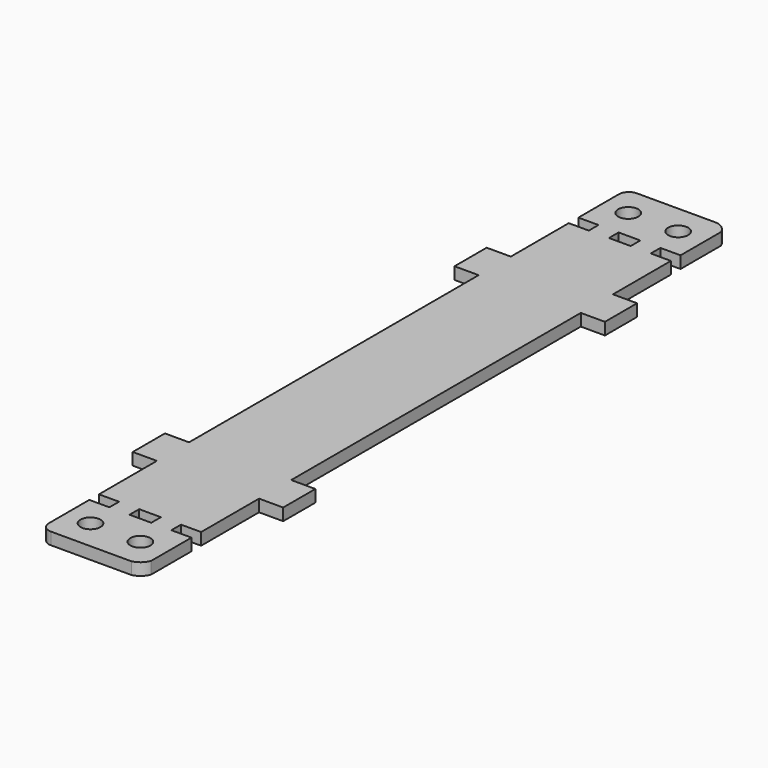
from build123d import *

# Parameters (mm, degrees)
F0_R     = 2.5
F0_W     = 5.4
F0_H     = 3
F1_DEPTH = 3


with BuildPart() as f1:
    # F0 (on Top) → F1 (new body)
    with BuildSketch(Plane.XY):
        with BuildLine():
            Line((35.475276, 88.562525), (35.475276, 76))
            Line((35.475276, 76), (40.475276, 76))
            Line((40.475276, 76), (40.475276, 73))
            Line((40.475276, 73), (35.475276, 73))
            Line((35.475276, 73), (35.475276, 55))
            Line((35.475276, 55), (29.475276, 55))
            Line((29.475276, 55), (29.475276, 45))
            Line((29.475276, 45), (35.475276, 45))
            Line((35.475276, 45), (35.475276, 0))
            Line((35.475276, 0), (35.475276, -45))
            Line((35.475276, -45), (29.475276, -45))
            Line((29.475276, -45), (29.475276, -55))
            Line((29.475276, -55), (35.475276, -55))
            Line((35.475276, -55), (35.475276, -73))
            Line((35.475276, -73), (40.475276, -73))
            Line((40.475276, -73), (40.475276, -76))
            Line((40.475276, -76), (35.475276, -76))
            Line((35.475276, -76), (35.475276, -88.562525))
            ThreePointArc((35.475276, -88.562525), (36.207509, -90.330292), (37.975276, -91.062525))
            Line((37.975276, -91.062525), (57.975276, -91.062525))
            ThreePointArc((57.975276, -91.062525), (59.741977, -90.179898), (60.875276, -88.562525))
            Line((60.875276, -88.562525), (60.875276, -76))
            Line((60.875276, -76), (55.875276, -76))
            Line((55.875276, -76), (55.875276, -73))
            Line((55.875276, -73), (60.875276, -73))
            Line((60.875276, -73), (60.875276, -55))
            Line((60.875276, -55), (66.875276, -55))
            Line((66.875276, -55), (66.875276, -45))
            Line((66.875276, -45), (60.875276, -45))
            Line((60.875276, -45), (60.875276, 0))
            Line((60.875276, 0), (60.875276, 45))
            Line((60.875276, 45), (66.875276, 45))
            Line((66.875276, 45), (66.875276, 55))
            Line((66.875276, 55), (60.875276, 55))
            Line((60.875276, 55), (60.875276, 73))
            Line((60.875276, 73), (55.875276, 73))
            Line((55.875276, 73), (55.875276, 76))
            Line((55.875276, 76), (60.875276, 76))
            Line((60.875276, 76), (60.875276, 88.562525))
            ThreePointArc((60.875276, 88.562525), (59.741977, 90.179898), (57.975276, 91.062525))
            Line((57.975276, 91.062525), (37.975276, 91.062525))
            ThreePointArc((37.975276, 91.062525), (36.207509, 90.330292), (35.475276, 88.562525))
        make_face()
        with Locations((41.825276, -83.562525)):
            Circle(F0_R, mode=Mode.SUBTRACT)
        with Locations((54.225276, -83.562525)):
            Circle(F0_R, mode=Mode.SUBTRACT)
        with Locations((48.175276, -74.5)):
            Rectangle(F0_W, F0_H, mode=Mode.SUBTRACT)
        with Locations((41.825276, 83.562525)):
            Circle(F0_R, mode=Mode.SUBTRACT)
        with Locations((48.175276, 74.5)):
            Rectangle(F0_W, F0_H, mode=Mode.SUBTRACT)
        with Locations((54.225276, 83.562525)):
            Circle(F0_R, mode=Mode.SUBTRACT)
    extrude(amount=F1_DEPTH)


solid = f1.part
